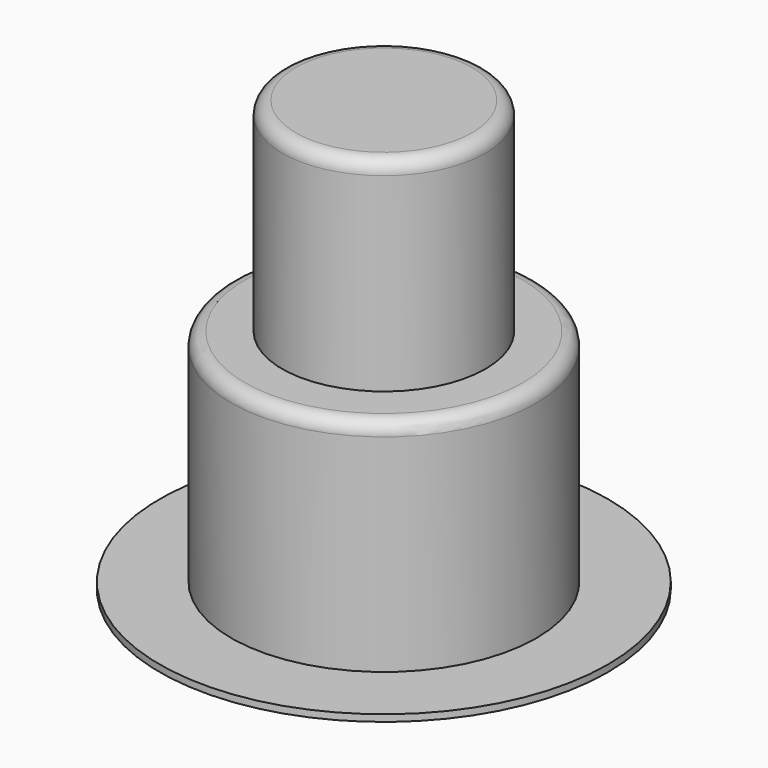
from build123d import *

# Parameters (mm, degrees)
F0_R     = 114.3
F1_DEPTH = 165.1
F2_R     = 76.2
F3_DEPTH = 152.4
F4_R     = 10.16
F5_R     = 167.81132
F6_DEPTH = 5.08


with BuildPart() as f1:
    # F0 (on Top) → F1 (new body)
    with BuildSketch(Plane.XY):
        Circle(F0_R)
    extrude(amount=F1_DEPTH)

    # F2 (on face) → F3 (join)
    with BuildSketch(Plane.XY.offset(165.1)):
        Circle(F2_R)
    extrude(amount=F3_DEPTH)

    # F4
    f4_edges = [f1.edges().sort_by_distance(p)[0] for p in [
        (-114.3, 0, 165.1),
        (-76.2, 0, 317.5),
    ]]
    fillet(f4_edges, radius=F4_R)

    # F5 (on face) → F6 (join)
    with BuildSketch(Plane(origin=(0, 0, 0), x_dir=(1, 0, 0), z_dir=(0, 0, -1))):
        Circle(F5_R)
    extrude(amount=F6_DEPTH)


solid = f1.part
